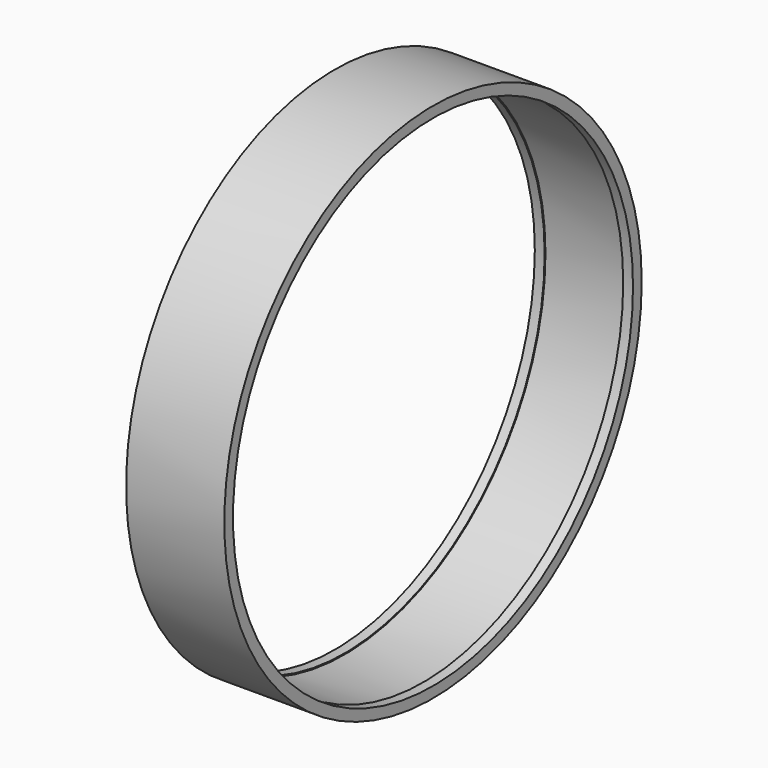
from build123d import *

# Parameters (mm, degrees)
F0_R     = 66.408599
F0_R_2   = 63.646322
F1_DEPTH = 25
F2_T     = -2.5


with BuildPart() as f1:
    # F0 (on Right) → F1 (new body)
    with BuildSketch(Plane.YZ):
        Circle(F0_R)
        Circle(F0_R_2, mode=Mode.SUBTRACT)
    extrude(amount=F1_DEPTH)

    # F2
    f2_openings = [f1.faces().sort_by_distance(p)[0] for p in [
        (12.5, -63.646322, 0),
    ]]
    offset(amount=F2_T, openings=f2_openings)


solid = f1.part
